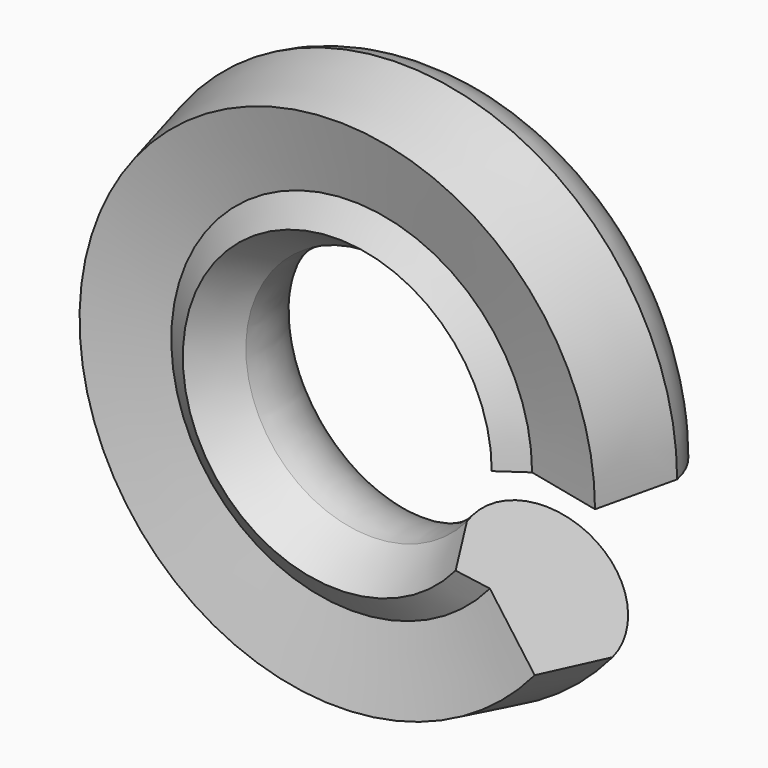
from build123d import *

# Parameters (mm, degrees)
F2_ANGLE = 320


with BuildPart() as f2:
    # F0 (on Top) → F2 (revolve)
    with BuildSketch(Plane.XY):
        with BuildLine():
            ThreePointArc((65.187724, 24.35146), (42.747755, 38.617681), (29.546838, 15.534937))
            Line((29.546838, 15.534937), (36.451258, 5.584455))
            Line((36.451258, 5.584455), (42.572048, 9.831535))
            Line((42.572048, 9.831535), (60.819786, 5.584455))
            Line((60.819786, 5.584455), (65.187724, 24.35146))
        make_face()
    revolve(axis=Axis((0, 20.042658, 0), (0, -1, 0)), revolution_arc=F2_ANGLE)


solid = f2.part
